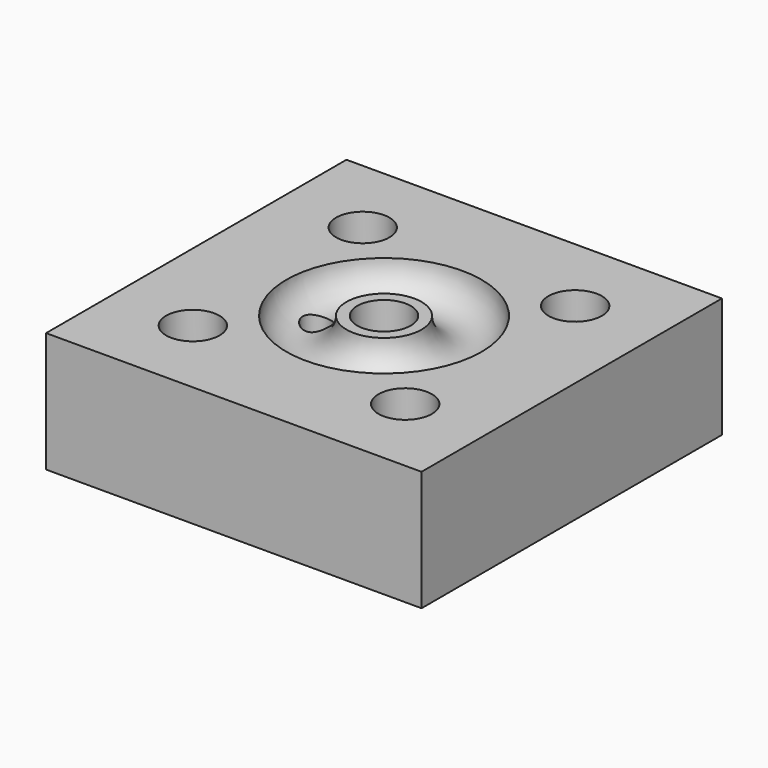
from build123d import *

# Parameters (mm, degrees)
F0_W     = 31.75
F0_H     = 31.75
F1_DEPTH = 10.16
F2_R     = 2.54
F4_R     = 2.2606
F5_DEPTH = 25.4
F6_R     = 3.556
F7_DEPTH = 5.08
F8_R     = 1.143
F9_DEPTH = 25.4


with BuildPart() as f1:
    # F0 (on Top) → F1 (new body)
    with BuildSketch(Plane.XY):
        Rectangle(F0_W, F0_H)
    extrude(amount=F1_DEPTH)

    # F2 (on Front) → F3 (revolve, cut)
    with BuildSketch(Plane.XZ):
        with Locations((5.715, 10.16)):
            Circle(F2_R)
    revolve(axis=Axis((0, 0, 8.061379), (0, 0, -1)), mode=Mode.SUBTRACT)

    # F4 (on face) → F5 (cut)
    with BuildSketch(Plane.XY.offset(10.16)):
        Circle(F4_R)
        with Locations((-8.980256, 8.980256)):
            Circle(F4_R)
        with Locations((8.980256, 8.980256)):
            Circle(F4_R)
        with Locations((-8.980256, -8.980256)):
            Circle(F4_R)
        with Locations((8.980256, -8.980256)):
            Circle(F4_R)
    extrude(amount=-F5_DEPTH, mode=Mode.SUBTRACT)

    # F6 (on face) → F7 (cut)
    with BuildSketch(Plane(origin=(0, 0, 0), x_dir=(1, 0, 0), z_dir=(0, 0, -1))):
        Circle(F6_R)
        with Locations((-8.980256, 8.980256)):
            Circle(F6_R)
        with Locations((8.980256, 8.980256)):
            Circle(F6_R)
        with Locations((-8.980256, -8.980256)):
            Circle(F6_R)
        with Locations((8.980256, -8.980256)):
            Circle(F6_R)
    extrude(amount=-F7_DEPTH, mode=Mode.SUBTRACT)

    # F8 (on face) → F9 (cut)
    with BuildSketch(Plane(origin=(0, 0, 0), x_dir=(1, 0, 0), z_dir=(0, 0, -1))):
        with Locations((-5.715, 0)):
            Circle(F8_R)
    extrude(amount=-F9_DEPTH, mode=Mode.SUBTRACT)


solid = f1.part
